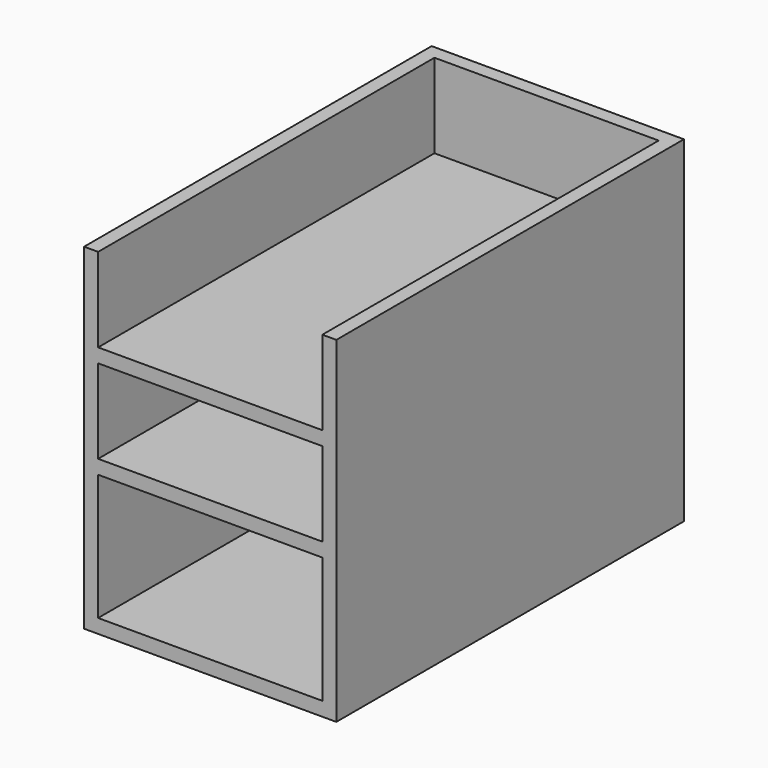
from build123d import *

# Parameters (mm, degrees)
F0_W      = 203.2
F0_H      = 381
F1_DEPTH  = 12.7
F2_W      = 203.2
F2_H      = 292.1
F2_H_2    = 12.7
F3_DEPTH  = 12.7
F4_W      = 381
F4_H      = 292.1
F5_DEPTH  = 12.7
F6_W      = 381
F6_H      = 292.1
F7_DEPTH  = 12.7
F8_W      = 203.2
F8_H      = 12.7
F9_DEPTH  = 381
F10_W     = 203.2
F10_H     = 12.7
F11_DEPTH = 381


with BuildPart() as f1:
    # F0 (on Top) → F1 (new body)
    with BuildSketch(Plane.XY):
        Rectangle(F0_W, F0_H)
    extrude(amount=F1_DEPTH)

    # F2 (on face) → F3 (join)
    with BuildSketch(Plane(origin=(0, 190.5, 0), x_dir=(-1, 0, 0), z_dir=(0, 1, 0))):
        with Locations((0, 158.75)):
            Rectangle(F2_W, F2_H)
        with Locations((0, 6.35)):
            Rectangle(F2_W, F2_H_2)
    extrude(amount=F3_DEPTH)

    # F4 (on face) → F5 (join)
    with BuildSketch(Plane.YZ.offset(101.6)):
        with Locations((0, 158.75)):
            Rectangle(F4_W, F4_H)
        Polygon((-190.5, 0), (203.2, 0), (203.2, 304.8), (190.5, 304.8), (190.5, 12.7), (-190.5, 12.7), align=None)
    extrude(amount=F5_DEPTH)

    # F6 (on face) → F7 (join)
    with BuildSketch(Plane(origin=(-101.6, 0, 0), x_dir=(0, -1, 0), z_dir=(-1, 0, 0))):
        Polygon((-203.2, 304.8), (-203.2, 0), (190.5, 0), (190.5, 12.7), (-190.5, 12.7), (-190.5, 304.8), align=None)
        with Locations((0, 158.75)):
            Rectangle(F6_W, F6_H)
    extrude(amount=F7_DEPTH)

    # F8 (on face) → F9 (join)
    with BuildSketch(Plane.XZ.offset(-190.5)):
        with Locations((0, 222.25)):
            Rectangle(F8_W, F8_H)
    extrude(amount=F9_DEPTH)

    # F10 (on face) → F11 (join)
    with BuildSketch(Plane.XZ.offset(-190.5)):
        with Locations((0, 133.35)):
            Rectangle(F10_W, F10_H)
    extrude(amount=F11_DEPTH)


solid = f1.part
